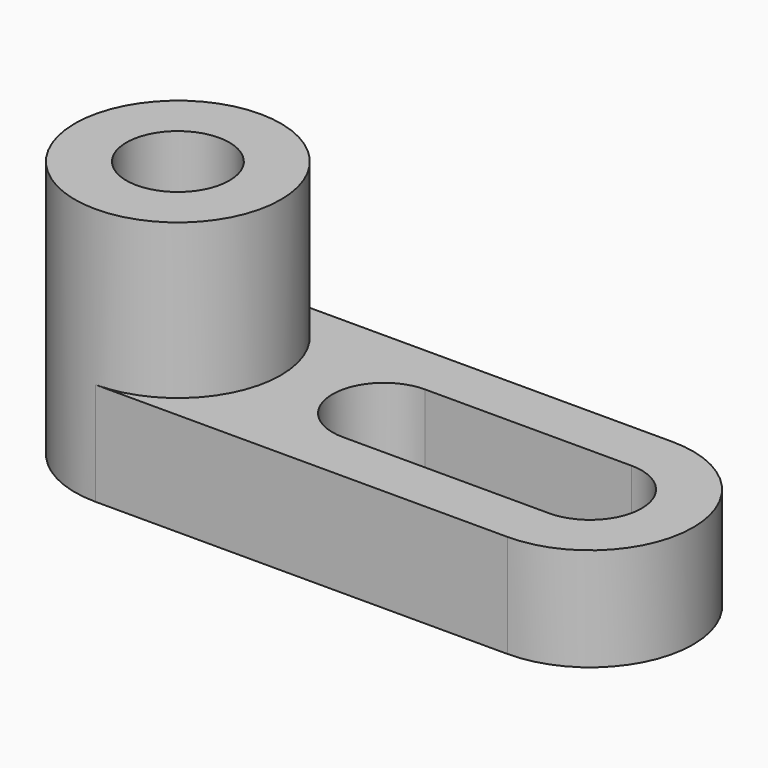
from build123d import *

# Parameters (mm, degrees)
F1_DEPTH  = 25.4
F2_R      = 6.35
F3_DEPTH  = 38.1
F5_DEPTH  = 25.4
F7_DEPTH  = 25.4
F8_DEPTH  = 25.4
F9_DEPTH  = 25.4
F11_DEPTH = 25.4
F12_DEPTH = 19.05


with BuildPart() as f1:
    # F0 (on Front) → F1 (new body)
    with BuildSketch(Plane.XZ):
        Polygon((-37.6096788886, 50.8), (-75.7096788886, 50.8), (-75.7096788886, 0), (13.1903211114, 0), (13.1903211114, 12.7), (-37.6096788886, 12.7), align=None)
    extrude(amount=F1_DEPTH)

    # F2 (on face) → F3 (cut)
    with BuildSketch(Plane.XY.offset(50.8)):
        with BuildLine():
            ThreePointArc((-56.6596788886, 0), (-47.6794227675, -3.7197438789), (-43.9596788886, -12.7))
            ThreePointArc((-43.9596788886, -12.7), (-47.6794227675, -21.6802561211), (-56.6596788886, -25.4))
            Line((-56.6596788886, -25.4), (-37.6096788886, -25.4))
            Line((-37.6096788886, -25.4), (-37.6096788886, 0))
            Line((-37.6096788886, 0), (-56.6596788886, 0))
        make_face()
        with Locations((-56.6596788886, -12.7)):
            Circle(F2_R)
    extrude(amount=-F3_DEPTH, mode=Mode.SUBTRACT)

    # F4 (on face) → F5 (cut)
    with BuildSketch(Plane.XZ.offset(25.4)):
        with BuildLine():
            ThreePointArc((-74.1441026044, 0), (-75.2174849859, 1.8027068987), (-75.7096788886, 3.842228181))
            Line((-75.7096788886, 3.842228181), (-75.7096788886, 0))
            Line((-75.7096788886, 0), (-74.1441026044, 0))
        make_face()
    extrude(amount=-F5_DEPTH, mode=Mode.SUBTRACT)

    # F6 (on face) → F7 (cut)
    with BuildSketch(Plane.XY.offset(50.8)):
        with BuildLine():
            ThreePointArc((-56.6596788886, -25.4), (-69.3596788886, -12.7), (-56.6596788886, 0))
            Line((-56.6596788886, 0), (-75.7096788886, 0))
            Line((-75.7096788886, 0), (-75.7096788886, -25.4))
            Line((-75.7096788886, -25.4), (-56.6596788886, -25.4))
        make_face()
    extrude(amount=-F7_DEPTH, mode=Mode.SUBTRACT)

    # F8 (cut): a face of the model
    f8_faces = [f1.faces().sort_by_distance(p)[0] for p in [
        (-70.7292854187, -12.7, 25.4),
    ]]
    extrude(f8_faces, amount=-F8_DEPTH, mode=Mode.SUBTRACT)

    # F9 (cut): a face of the model
    f9_faces = [f1.faces().sort_by_distance(p)[0] for p in [
        (-56.6596788886, -12.7, 12.7),
    ]]
    extrude(f9_faces, amount=-F9_DEPTH, mode=Mode.SUBTRACT)

    # F10 (on face) → F11 (cut)
    with BuildSketch(Plane.XY.offset(12.7)):
        with BuildLine():
            ThreePointArc((-31.2596788886, -19.05), (-26.7695508281, -17.1901280605), (-24.9096788886, -12.7))
            ThreePointArc((-24.9096788886, -12.7), (-26.7695508281, -8.2098719395), (-31.2596788886, -6.35))
            ThreePointArc((-31.2596788886, -6.35), (-37.6096788886, -12.7), (-31.2596788886, -19.05))
        make_face()
        with BuildLine():
            ThreePointArc((-31.2596788886, -6.35), (-26.7695508281, -8.2098719395), (-24.9096788886, -12.7))
            ThreePointArc((-24.9096788886, -12.7), (-26.7695508281, -17.1901280605), (-31.2596788886, -19.05))
            Line((-31.2596788886, -19.05), (-5.8596788886, -19.05))
            ThreePointArc((-5.8596788886, -19.05), (-12.2096788886, -12.7), (-5.8596788886, -6.35))
            Line((-5.8596788886, -6.35), (-31.2596788886, -6.35))
        make_face()
        with BuildLine():
            ThreePointArc((0.4903211114, -12.7), (-1.3695508281, -8.2098719395), (-5.8596788886, -6.35))
            ThreePointArc((-5.8596788886, -6.35), (-12.2096788886, -12.7), (-5.8596788886, -19.05))
            ThreePointArc((-5.8596788886, -19.05), (-1.3695508281, -17.1901280605), (0.4903211114, -12.7))
        make_face()
        with BuildLine():
            ThreePointArc((-5.8596788886, 0), (6.8403211114, -12.7), (-5.8596788886, -25.4))
            Line((-5.8596788886, -25.4), (13.1903211114, -25.4))
            Line((13.1903211114, -25.4), (13.1903211114, 0))
            Line((13.1903211114, 0), (-5.8596788886, 0))
        make_face()
    extrude(amount=-F11_DEPTH, mode=Mode.SUBTRACT)

    # F12 (cut): a face of the model
    f12_faces = [f1.faces().sort_by_distance(p)[0] for p in [
        (-56.6596788886, -0.3592102448, 50.8),
    ]]
    extrude(f12_faces, amount=-F12_DEPTH, mode=Mode.SUBTRACT)


solid = f1.part
